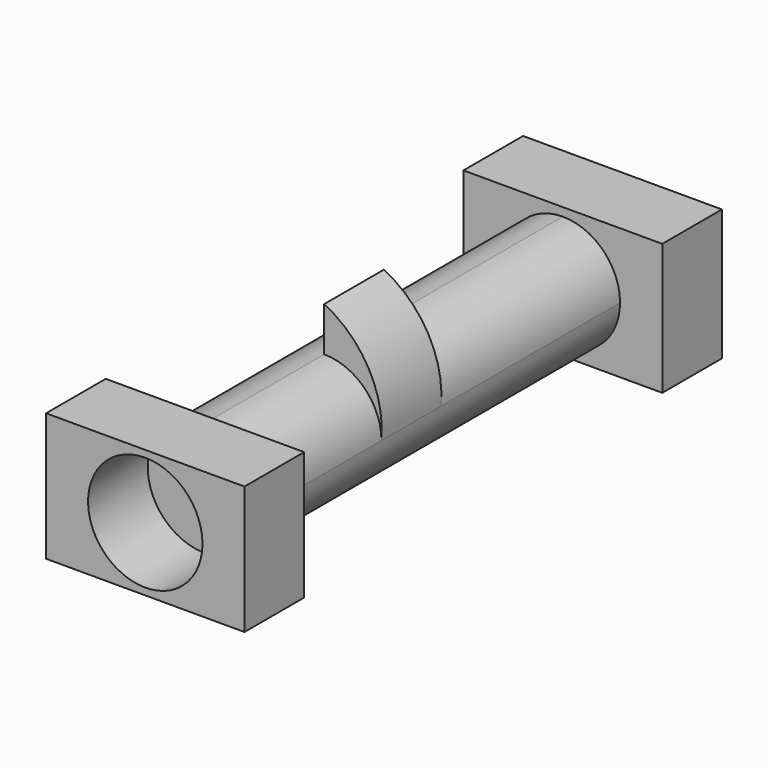
from build123d import *

# Parameters (mm, degrees)
F1_DEPTH = 75
F2_DEPTH = 25
F3_W     = 66.513658
F3_H     = 42.944946
F4_DEPTH = 25
F5_W     = 66.664488
F5_H     = 43.980044
F6_DEPTH = 25


with BuildPart() as f1:
    # F0 (on Front) → F1 (new body, symmetric)
    with BuildSketch(Plane.XZ):
        with BuildLine():
            ThreePointArc((0, 19.178839), (-13.561487, -13.561487), (19.178839, 0))
            ThreePointArc((19.178839, 0), (13.561487, 13.561487), (0, 19.178839))
        make_face()
    extrude(amount=F1_DEPTH, both=True)

    # F0 (on Front) → F2 (join)
    with BuildSketch(Plane.XZ):
        with BuildLine():
            ThreePointArc((0, 19.178839), (-13.561487, -13.561487), (19.178839, 0))
            ThreePointArc((19.178839, 0), (13.561487, 13.561487), (0, 19.178839))
        make_face()
        with BuildLine():
            ThreePointArc((0, 19.178839), (13.561487, 13.561487), (19.178839, 0))
            ThreePointArc((19.178839, 0), (14.847851, 19.977202), (0, 34.026664))
            Line((0, 34.026664), (0, 19.178839))
        make_face()
    extrude(amount=F2_DEPTH)


with BuildPart() as f4:
    # F3 (on face) → F4 (new body)
    with BuildSketch(Plane.XZ.offset(75)):
        Rectangle(F3_W, F3_H)
        with BuildLine():
            ThreePointArc((0, 19.178839), (13.561487, 13.561487), (19.178839, 0))
            ThreePointArc((19.178839, 0), (-13.561487, -13.561487), (0, 19.178839))
        make_face(mode=Mode.SUBTRACT)
    extrude(amount=F4_DEPTH)


with BuildPart() as f6:
    # F5 (on face) → F6 (new body)
    with BuildSketch(Plane(origin=(0, 75, 0), x_dir=(-1, 0, 0), z_dir=(0, 1, 0))):
        Rectangle(F5_W, F5_H)
        with BuildLine():
            ThreePointArc((-19.178839, 0), (-13.561487, 13.561487), (0, 19.178839))
            ThreePointArc((0, 19.178839), (13.561487, -13.561487), (-19.178839, 0))
        make_face(mode=Mode.SUBTRACT)
    extrude(amount=F6_DEPTH)


solid = Compound([f1.part, f4.part, f6.part])
